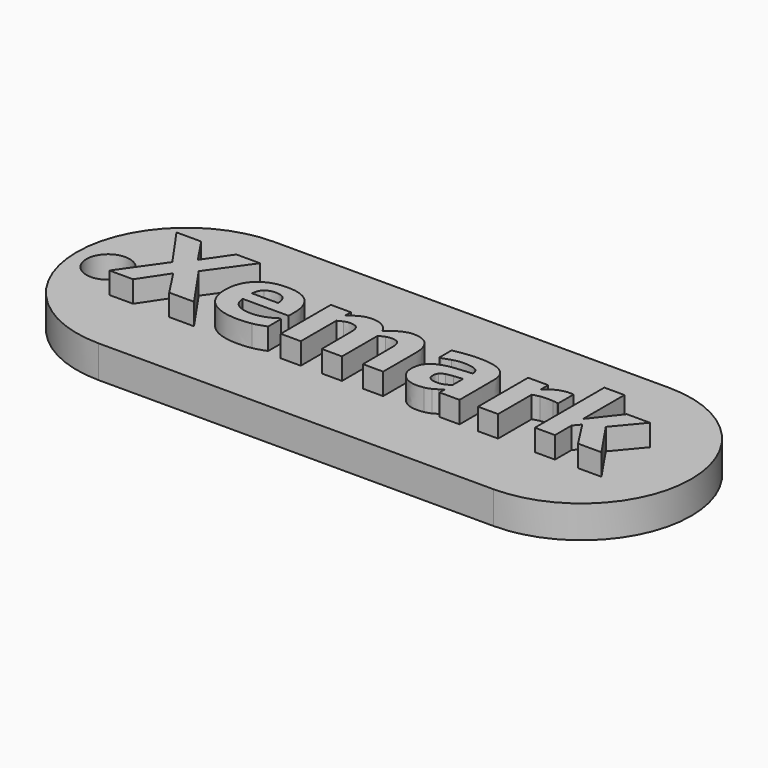
from build123d import *

# Parameters (mm, degrees)
CYLINDER_R       = 2
CYLINDER_DEPTH   = 10
PAD_DEPTH        = 3
EXTRUDE002_DEPTH = 3
EXTRUDE001_DEPTH = 3
EXTRUDE004_DEPTH = 3
EXTRUDE005_DEPTH = 3
EXTRUDE007_DEPTH = 3
EXTRUDE003_DEPTH = 3
EXTRUDE006_DEPTH = 3
EXTRUDE_DEPTH    = 3


with BuildPart() as cilindro:
    # Cylinder → Cylinder (new body)
    with BuildSketch(Plane(origin=(-19, 1, -6), x_dir=(1, 0, 0), z_dir=(0, 0, 1))):
        Circle(CYLINDER_R)
    extrude(amount=CYLINDER_DEPTH)


with BuildPart() as cut002:
    # Sketch → Pad (new body)
    with BuildSketch(Plane.XY):
        with BuildLine():
            ThreePointArc((-12.054601, 11.577675), (-22.22746, 1.404816), (-12.054601, -8.768044))
            Line((-12.054601, -8.768044), (24.520599, -8.768044))
            ThreePointArc((24.520599, -8.768044), (34.693458, 1.404816), (24.520599, 11.577675))
            Line((-12.054601, 11.577675), (24.520599, 11.577675))
        make_face()
    extrude(amount=PAD_DEPTH)

    # Cut002: cut Cilindro
    add(cilindro.part, mode=Mode.SUBTRACT)


with BuildPart() as extrude002:
    # path45001 → Extrude002 (new body)
    with BuildSketch(Plane(origin=(-4.684063, 1.865489, 0), x_dir=(0, 1, 0), z_dir=(0, 0, 1))):
        with BuildLine():
            add(Edge.make_bspline(
                [(-0.586528, -1.206645), (-0.002584, -1.191143), (0.291972, -0.917257)],
                knots=[0, 0, 0, 1, 1, 1], degree=2))
            add(Edge.make_bspline(
                [(0.291972, -0.917257), (0.586528, -0.643372), (0.586528, -0.064596)],
                knots=[0, 0, 0, 1, 1, 1], degree=2))
            add(Edge.make_bspline(
                [(0.586528, -0.064596), (0.586528, 0.472839), (0.307475, 0.819071)],
                knots=[0, 0, 0, 1, 1, 1], degree=2))
            add(Edge.make_bspline(
                [(0.307475, 0.819071), (0.028422, 1.165304), (-0.586528, 1.206645)],
                knots=[0, 0, 0, 1, 1, 1], degree=2))
            add(Edge.make_bspline(
                [(-0.586528, 1.206645), (-0.586528, -1.206645)],
                knots=[0, 0, 9.121094, 9.121094], degree=1))
        make_face()
    extrude(amount=EXTRUDE002_DEPTH)


with BuildPart() as cut:
    # path45 → Extrude001 (new body)
    with BuildSketch(Plane(origin=(-4.696982, 0.545156, 0), x_dir=(0, -1, 0), z_dir=(0, 0, -1))):
        with BuildLine():
            add(Edge.make_bspline(
                [(0.356567, -3.06958), (0.356567, 1.188558)],
                knots=[0, 0, 16.09375, 16.09375], degree=1))
            add(Edge.make_bspline(
                [(0.356567, 1.188558), (1.038696, 1.147217), (1.400431, 0.671794)],
                knots=[0, 0, 0, 1, 1, 1], degree=2))
            add(Edge.make_bspline(
                [(1.400431, 0.671794), (1.762166, 0.191203), (1.762166, -0.738973)],
                knots=[0, 0, 0, 1, 1, 1], degree=2))
            add(Edge.make_bspline(
                [(1.762166, -0.738973), (1.762166, -1.328084), (1.550293, -1.881022)],
                knots=[0, 0, 0, 1, 1, 1], degree=2))
            add(Edge.make_bspline(
                [(1.550293, -1.881022), (1.33842, -2.43396), (1.09554, -2.754354)],
                knots=[0, 0, 0, 1, 1, 1], degree=2))
            add(Edge.make_bspline(
                [(1.09554, -2.754354), (1.09554, -2.96106)],
                knots=[0, 0, 0.78125, 0.78125], degree=1))
            add(Edge.make_bspline(
                [(1.09554, -2.96106), (2.588989, -2.96106)],
                knots=[0, 0, 5.644531, 5.644531], degree=1))
            add(Edge.make_bspline(
                [(2.588989, -2.96106), (2.842204, -2.330607), (2.955892, -1.772502)],
                knots=[0, 0, 0, 1, 1, 1], degree=2))
            add(Edge.make_bspline(
                [(2.955892, -1.772502), (3.06958, -1.214396), (3.06958, -0.537435)],
                knots=[0, 0, 0, 1, 1, 1], degree=2))
            add(Edge.make_bspline(
                [(3.06958, -0.537435), (3.06958, 1.209229), (2.284098, 2.139404)],
                knots=[0, 0, 0, 1, 1, 1], degree=2))
            add(Edge.make_bspline(
                [(2.284098, 2.139404), (1.498617, 3.06958), (0.046509, 3.06958)],
                knots=[0, 0, 0, 1, 1, 1], degree=2))
            add(Edge.make_bspline(
                [(0.046509, 3.06958), (-1.390096, 3.06958), (-2.227254, 2.191081)],
                knots=[0, 0, 0, 1, 1, 1], degree=2))
            add(Edge.make_bspline(
                [(-2.227254, 2.191081), (-3.06958, 1.307414), (-3.06958, -0.227376)],
                knots=[0, 0, 0, 1, 1, 1], degree=2))
            add(Edge.make_bspline(
                [(-3.06958, -0.227376), (-3.06958, -1.643311), (-2.351278, -2.356445)],
                knots=[0, 0, 0, 1, 1, 1], degree=2))
            add(Edge.make_bspline(
                [(-2.351278, -2.356445), (-1.638143, -3.06958), (-0.294556, -3.06958)],
                knots=[0, 0, 0, 1, 1, 1], degree=2))
            add(Edge.make_bspline(
                [(-0.294556, -3.06958), (0.356567, -3.06958)],
                knots=[0, 0, 2.460937, 2.460937], degree=1))
        make_face()
    extrude(amount=-EXTRUDE001_DEPTH)

    # Cut: cut Extrude002
    add(extrude002.part, mode=Mode.SUBTRACT)


with BuildPart() as extrude004:
    # path49 → Extrude004 (new body)
    with BuildSketch(Plane(origin=(13.374265, -0.457367, 0), x_dir=(0, 1, 0), z_dir=(0, 0, 1))):
        with BuildLine():
            add(Edge.make_bspline(
                [(-0.397909, -1.028361), (0.81132, -1.028361)],
                knots=[0, 0, 4.570313, 4.570313], degree=1))
            add(Edge.make_bspline(
                [(0.81132, -1.028361), (0.780314, -0.651124), (0.72347, -0.211873)],
                knots=[0, 0, 0, 1, 1, 1], degree=2))
            add(Edge.make_bspline(
                [(0.72347, -0.211873), (0.671794, 0.227375), (0.599446, 0.454753)],
                knots=[0, 0, 0, 1, 1, 1], degree=2))
            add(Edge.make_bspline(
                [(0.599446, 0.454753), (0.511597, 0.733803), (0.341064, 0.883666)],
                knots=[0, 0, 0, 1, 1, 1], degree=2))
            add(Edge.make_bspline(
                [(0.341064, 0.883666), (0.1757, 1.028361), (-0.098185, 1.028361)],
                knots=[0, 0, 0, 1, 1, 1], degree=2))
            add(Edge.make_bspline(
                [(-0.098185, 1.028361), (-0.279053, 1.028361), (-0.392741, 0.997355)],
                knots=[0, 0, 0, 1, 1, 1], degree=2))
            add(Edge.make_bspline(
                [(-0.392741, 0.997355), (-0.506429, 0.966348), (-0.609782, 0.842325)],
                knots=[0, 0, 0, 1, 1, 1], degree=2))
            add(Edge.make_bspline(
                [(-0.609782, 0.842325), (-0.713135, 0.723469), (-0.764811, 0.558104)],
                knots=[0, 0, 0, 1, 1, 1], degree=2))
            add(Edge.make_bspline(
                [(-0.764811, 0.558104), (-0.81132, 0.39274), (-0.81132, 0.041341)],
                knots=[0, 0, 0, 1, 1, 1], degree=2))
            add(Edge.make_bspline(
                [(-0.81132, 0.041341), (-0.81132, -0.237712), (-0.697632, -0.521933)],
                knots=[0, 0, 0, 1, 1, 1], degree=2))
            add(Edge.make_bspline(
                [(-0.697632, -0.521933), (-0.583944, -0.811321), (-0.397909, -1.028361)],
                knots=[0, 0, 0, 1, 1, 1], degree=2))
        make_face()
    extrude(amount=EXTRUDE004_DEPTH)


with BuildPart() as cut001:
    # path49001 → Extrude005 (new body)
    with BuildSketch(Plane(origin=(13.351012, 0.537405, 0), x_dir=(0, -1, 0), z_dir=(0, 0, -1))):
        with BuildLine():
            add(Edge.make_bspline(
                [(2.29185, -1.051614), (2.405538, -0.901754), (2.565735, -0.679544)],
                knots=[0, 0, 0, 1, 1, 1], degree=2))
            add(Edge.make_bspline(
                [(2.565735, -0.679544), (2.725932, -0.457336), (2.818949, -0.260965)],
                knots=[0, 0, 0, 1, 1, 1], degree=2))
            add(Edge.make_bspline(
                [(2.818949, -0.260965), (2.942973, 0.012921), (2.999817, 0.307476)],
                knots=[0, 0, 0, 1, 1, 1], degree=2))
            add(Edge.make_bspline(
                [(2.999817, 0.307476), (3.061829, 0.602032), (3.061829, 0.95343)],
                knots=[0, 0, 0, 1, 1, 1], degree=2))
            add(Edge.make_bspline(
                [(3.061829, 0.95343), (3.061829, 1.780253), (2.550232, 2.33836)],
                knots=[0, 0, 0, 1, 1, 1], degree=2))
            add(Edge.make_bspline(
                [(2.550232, 2.33836), (2.038635, 2.896464), (1.242818, 2.896464)],
                knots=[0, 0, 0, 1, 1, 1], degree=2))
            add(Edge.make_bspline(
                [(1.242818, 2.896464), (0.607198, 2.896464), (0.204122, 2.612243)],
                knots=[0, 0, 0, 1, 1, 1], degree=2))
            add(Edge.make_bspline(
                [(0.204122, 2.612243), (-0.198954, 2.328025), (-0.431498, 1.806092)],
                knots=[0, 0, 0, 1, 1, 1], degree=2))
            add(Edge.make_bspline(
                [(-0.431498, 1.806092), (-0.664042, 1.289326), (-0.762227, 0.524517)],
                knots=[0, 0, 0, 1, 1, 1], degree=2))
            add(Edge.make_bspline(
                [(-0.762227, 0.524517), (-0.860413, -0.240296), (-0.906921, -1.061949)],
                knots=[0, 0, 0, 1, 1, 1], degree=2))
            add(Edge.make_bspline(
                [(-0.906921, -1.061949), (-0.937927, -1.061949)],
                knots=[0, 0, 0.117188, 0.117188], degree=1))
            add(Edge.make_bspline(
                [(-0.937927, -1.061949), (-1.418518, -1.061949), (-1.599386, -0.669209)],
                knots=[0, 0, 0, 1, 1, 1], degree=2))
            add(Edge.make_bspline(
                [(-1.599386, -0.669209), (-1.785421, -0.276467), (-1.785421, 0.488343)],
                knots=[0, 0, 0, 1, 1, 1], degree=2))
            add(Edge.make_bspline(
                [(-1.785421, 0.488343), (-1.785421, 0.948263), (-1.620056, 1.470196)],
                knots=[0, 0, 0, 1, 1, 1], degree=2))
            add(Edge.make_bspline(
                [(-1.620056, 1.470196), (-1.459859, 1.992126), (-1.372009, 2.219504)],
                knots=[0, 0, 0, 1, 1, 1], degree=2))
            add(Edge.make_bspline(
                [(-1.372009, 2.219504), (-1.372009, 2.390035)],
                knots=[0, 0, 0.64453, 0.64453], degree=1))
            add(Edge.make_bspline(
                [(-1.372009, 2.390035), (-2.772441, 2.390035)],
                knots=[0, 0, 5.292969, 5.292969], degree=1))
            add(Edge.make_bspline(
                [(-2.772441, 2.390035), (-2.849955, 2.09548), (-2.953308, 1.434022)],
                knots=[0, 0, 0, 1, 1, 1], degree=2))
            add(Edge.make_bspline(
                [(-2.953308, 1.434022), (-3.061829, 0.767396), (-3.061829, 0.100771)],
                knots=[0, 0, 0, 1, 1, 1], degree=2))
            add(Edge.make_bspline(
                [(-3.061829, 0.100771), (-3.061829, -1.485698), (-2.570903, -2.188497)],
                knots=[0, 0, 0, 1, 1, 1], degree=2))
            add(Edge.make_bspline(
                [(-2.570903, -2.188497), (-2.085144, -2.896464), (-1.04128, -2.896464)],
                knots=[0, 0, 0, 1, 1, 1], degree=2))
            add(Edge.make_bspline(
                [(-1.04128, -2.896464), (2.906799, -2.896464)],
                knots=[0, 0, 14.921875, 14.921875], degree=1))
            add(Edge.make_bspline(
                [(2.906799, -2.896464), (2.906799, -1.051614)],
                knots=[0, 0, 6.97266, 6.97266], degree=1))
            add(Edge.make_bspline(
                [(2.906799, -1.051614), (2.29185, -1.051614)],
                knots=[0, 0, 2.324219, 2.324219], degree=1))
        make_face()
    extrude(amount=-EXTRUDE005_DEPTH)

    # Cut001: cut Extrude004
    add(extrude004.part, mode=Mode.SUBTRACT)


with BuildPart() as extrude007:
    # path53 → Extrude007 (new body)
    with BuildSketch(Plane(origin=(26.308878, 1.651032, 0), x_dir=(0, -1, 0), z_dir=(0, 0, -1))):
        with BuildLine():
            add(Edge.make_bspline(
                [(4.020426, -3.079915), (4.020426, -0.914671)],
                knots=[0, 0, 8.1836, 8.1836], degree=1))
            add(Edge.make_bspline(
                [(4.020426, -0.914671), (1.493449, 0.713135)],
                knots=[0, 0, 11.360841, 11.360841], degree=1))
            add(Edge.make_bspline(
                [(1.493449, 0.713135), (2.108399, 1.219564)],
                knots=[0, 0, 3.010917, 3.010917], degree=1))
            add(Edge.make_bspline(
                [(2.108399, 1.219564), (4.020426, 1.219564)],
                knots=[0, 0, 7.226562, 7.226562], degree=1))
            add(Edge.make_bspline(
                [(4.020426, 1.219564), (4.020426, 3.079915)],
                knots=[0, 0, 7.03125, 7.03125], degree=1))
            add(Edge.make_bspline(
                [(4.020426, 3.079915), (-4.020426, 3.079915)],
                knots=[0, 0, 30.390625, 30.390625], degree=1))
            add(Edge.make_bspline(
                [(-4.020426, 3.079915), (-4.020426, 1.219564)],
                knots=[0, 0, 7.03125, 7.03125], degree=1))
            add(Edge.make_bspline(
                [(-4.020426, 1.219564), (0.780314, 1.219564)],
                knots=[0, 0, 18.144531, 18.144531], degree=1))
            add(Edge.make_bspline(
                [(0.780314, 1.219564), (-1.782837, -0.78548)],
                knots=[0, 0, 12.299413, 12.299413], degree=1))
            add(Edge.make_bspline(
                [(-1.782837, -0.78548), (-1.782837, -2.930053)],
                knots=[0, 0, 8.10547, 8.10547], degree=1))
            add(Edge.make_bspline(
                [(-1.782837, -2.930053), (0.718302, -0.842326)],
                knots=[0, 0, 12.313548, 12.313548], degree=1))
            add(Edge.make_bspline(
                [(0.718302, -0.842326), (4.020426, -3.079915)],
                knots=[0, 0, 15.075923, 15.075923], degree=1))
        make_face()
    extrude(amount=-EXTRUDE007_DEPTH)


with BuildPart() as extrude003:
    # path47 → Extrude003 (new body)
    with BuildSketch(Plane(origin=(4.429076, 0.612335, 0), x_dir=(0, -1, 0), z_dir=(0, 0, -1))):
        with BuildLine():
            add(Edge.make_bspline(
                [(-1.131714, -0.930174), (2.98173, -0.930174)],
                knots=[0, 0, 15.546875, 15.546875], degree=1))
            add(Edge.make_bspline(
                [(2.98173, -0.930174), (2.98173, 0.940512)],
                knots=[0, 0, 7.07031, 7.07031], degree=1))
            add(Edge.make_bspline(
                [(2.98173, 0.940512), (0.082682, 0.940512)],
                knots=[0, 0, 10.957031, 10.957031], degree=1))
            add(Edge.make_bspline(
                [(0.082682, 0.940512), (-0.341065, 0.940512), (-0.63562, 0.961176)],
                knots=[0, 0, 0, 1, 1, 1], degree=2))
            add(Edge.make_bspline(
                [(-0.63562, 0.961176), (-0.935343, 0.98184), (-1.121379, 1.074865)],
                knots=[0, 0, 0, 1, 1, 1], degree=2))
            add(Edge.make_bspline(
                [(-1.121379, 1.074865), (-1.307414, 1.167882), (-1.390096, 1.359085)],
                knots=[0, 0, 0, 1, 1, 1], degree=2))
            add(Edge.make_bspline(
                [(-1.390096, 1.359085), (-1.477946, 1.545119), (-1.477946, 1.886186)],
                knots=[0, 0, 0, 1, 1, 1], degree=2))
            add(Edge.make_bspline(
                [(-1.477946, 1.886186), (-1.477946, 2.160069), (-1.364258, 2.418453)],
                knots=[0, 0, 0, 1, 1, 1], degree=2))
            add(Edge.make_bspline(
                [(-1.364258, 2.418453), (-1.255737, 2.676835), (-1.131714, 2.883541)],
                knots=[0, 0, 0, 1, 1, 1], degree=2))
            add(Edge.make_bspline(
                [(-1.131714, 2.883541), (2.98173, 2.883541)],
                knots=[0, 0, 15.546875, 15.546875], degree=1))
            add(Edge.make_bspline(
                [(2.98173, 2.883541), (2.98173, 4.743897)],
                knots=[0, 0, 7.031268, 7.031268], degree=1))
            add(Edge.make_bspline(
                [(2.98173, 4.743897), (-2.821533, 4.743897)],
                knots=[0, 0, 21.933594, 21.933594], degree=1))
            add(Edge.make_bspline(
                [(-2.821533, 4.743897), (-2.821533, 2.883546)],
                knots=[0, 0, 7.031248, 7.031248], degree=1))
            add(Edge.make_bspline(
                [(-2.821533, 2.883546), (-2.180746, 2.883546)],
                knots=[0, 0, 2.421875, 2.421875], degree=1))
            add(Edge.make_bspline(
                [(-2.180746, 2.883546), (-2.557983, 2.402954), (-2.769857, 1.963706)],
                knots=[0, 0, 0, 1, 1, 1], degree=2))
            add(Edge.make_bspline(
                [(-2.769857, 1.963706), (-2.98173, 1.524455), (-2.98173, 0.992188)],
                knots=[0, 0, 0, 1, 1, 1], degree=2))
            add(Edge.make_bspline(
                [(-2.98173, 0.992188), (-2.98173, 0.418579), (-2.723348, -0.020669)],
                knots=[0, 0, 0, 1, 1, 1], degree=2))
            add(Edge.make_bspline(
                [(-2.723348, -0.020669), (-2.470134, -0.45992), (-1.97404, -0.707967)],
                knots=[0, 0, 0, 1, 1, 1], degree=2))
            add(Edge.make_bspline(
                [(-1.97404, -0.707967), (-2.444295, -1.266073), (-2.713013, -1.793171)],
                knots=[0, 0, 0, 1, 1, 1], degree=2))
            add(Edge.make_bspline(
                [(-2.713013, -1.793171), (-2.98173, -2.320271), (-2.98173, -2.8267)],
                knots=[0, 0, 0, 1, 1, 1], degree=2))
            add(Edge.make_bspline(
                [(-2.98173, -2.8267), (-2.98173, -3.767211), (-2.418457, -4.25297)],
                knots=[0, 0, 0, 1, 1, 1], degree=2))
            add(Edge.make_bspline(
                [(-2.418457, -4.25297), (-1.855184, -4.743897), (-0.795817, -4.743897)],
                knots=[0, 0, 0, 1, 1, 1], degree=2))
            add(Edge.make_bspline(
                [(-0.795817, -4.743897), (2.98173, -4.743897)],
                knots=[0, 0, 14.277344, 14.277344], degree=1))
            add(Edge.make_bspline(
                [(2.98173, -4.743897), (2.98173, -2.873208)],
                knots=[0, 0, 7.07032, 7.07032], degree=1))
            add(Edge.make_bspline(
                [(2.98173, -2.873208), (0.082682, -2.873208)],
                knots=[0, 0, 10.957031, 10.957031], degree=1))
            add(Edge.make_bspline(
                [(0.082682, -2.873208), (-0.346232, -2.873208), (-0.640788, -2.852544)],
                knots=[0, 0, 0, 1, 1, 1], degree=2))
            add(Edge.make_bspline(
                [(-0.640788, -2.852544), (-0.935343, -2.83704), (-1.121379, -2.744023)],
                knots=[0, 0, 0, 1, 1, 1], degree=2))
            add(Edge.make_bspline(
                [(-1.121379, -2.744023), (-1.307414, -2.656173), (-1.390096, -2.464972)],
                knots=[0, 0, 0, 1, 1, 1], degree=2))
            add(Edge.make_bspline(
                [(-1.390096, -2.464972), (-1.477946, -2.273768), (-1.477946, -1.927537)],
                knots=[0, 0, 0, 1, 1, 1], degree=2))
            add(Edge.make_bspline(
                [(-1.477946, -1.927537), (-1.477946, -1.694992), (-1.395264, -1.472784)],
                knots=[0, 0, 0, 1, 1, 1], degree=2))
            add(Edge.make_bspline(
                [(-1.395264, -1.472784), (-1.317749, -1.250574), (-1.131714, -0.930179)],
                knots=[0, 0, 0, 1, 1, 1], degree=2))
            add(Edge.make_bspline(
                [(-1.131714, -0.930179), (-1.131714, -0.930174)],
                knots=[0, 0, 2e-05, 2e-05], degree=1))
        make_face()
    extrude(amount=-EXTRUDE003_DEPTH)


with BuildPart() as extrude006:
    # path51 → Extrude006 (new body)
    with BuildSketch(Plane(origin=(20.061196, 0.542573, 0), x_dir=(0, -1, 0), z_dir=(0, 0, -1))):
        with BuildLine():
            add(Edge.make_bspline(
                [(-1.118794, -2.103231), (-1.118794, -1.937867)],
                knots=[0, 0, 0.625, 0.625], degree=1))
            add(Edge.make_bspline(
                [(-1.118794, -1.937867), (-1.160135, -1.81901), (-1.180806, -1.555462)],
                knots=[0, 0, 0, 1, 1, 1], degree=2))
            add(Edge.make_bspline(
                [(-1.180806, -1.555462), (-1.201478, -1.29191), (-1.201478, -1.116211)],
                knots=[0, 0, 0, 1, 1, 1], degree=2))
            add(Edge.make_bspline(
                [(-1.201478, -1.116211), (-1.201478, -0.718301), (-1.149801, -0.413411)],
                knots=[0, 0, 0, 1, 1, 1], degree=2))
            add(Edge.make_bspline(
                [(-1.149801, -0.413411), (-1.098125, -0.108521), (-0.974101, 0.24288)],
                knots=[0, 0, 0, 1, 1, 1], degree=2))
            add(Edge.make_bspline(
                [(-0.974101, 0.24288), (2.911966, 0.24288)],
                knots=[0, 0, 14.6875, 14.6875], degree=1))
            add(Edge.make_bspline(
                [(2.911966, 0.24288), (2.911966, 2.103231)],
                knots=[0, 0, 7.03125, 7.03125], degree=1))
            add(Edge.make_bspline(
                [(2.911966, 2.103231), (-2.891296, 2.103231)],
                knots=[0, 0, 21.933589, 21.933589], degree=1))
            add(Edge.make_bspline(
                [(-2.891296, 2.103231), (-2.891296, 0.24288)],
                knots=[0, 0, 7.03125, 7.03125], degree=1))
            add(Edge.make_bspline(
                [(-2.891296, 0.24288), (-2.038634, 0.24288)],
                knots=[0, 0, 3.222657, 3.222657], degree=1))
            add(Edge.make_bspline(
                [(-2.038634, 0.24288), (-2.565734, -0.37207), (-2.736266, -0.826823)],
                knots=[0, 0, 0, 1, 1, 1], degree=2))
            add(Edge.make_bspline(
                [(-2.736266, -0.826823), (-2.911966, -1.281576), (-2.911966, -1.66398)],
                knots=[0, 0, 0, 1, 1, 1], degree=2))
            add(Edge.make_bspline(
                [(-2.911966, -1.66398), (-2.911966, -1.762167), (-2.906799, -1.886191)],
                knots=[0, 0, 0, 1, 1, 1], degree=2))
            add(Edge.make_bspline(
                [(-2.906799, -1.886191), (-2.901632, -2.010214), (-2.891297, -2.103231)],
                knots=[0, 0, 0, 1, 1, 1], degree=2))
            add(Edge.make_bspline(
                [(-2.891297, -2.103231), (-1.118794, -2.103231)],
                knots=[0, 0, 6.699224, 6.699224], degree=1))
        make_face()
    extrude(amount=-EXTRUDE006_DEPTH)


with BuildPart() as fusion001:
    # path43 → Extrude (new body)
    with BuildSketch(Plane(origin=(-12.262412, 1.477916, 0), x_dir=(0, -1, 0), z_dir=(0, 0, -1))):
        with BuildLine():
            add(Edge.make_bspline(
                [(3.84731, -3.917074), (3.84731, -1.62264)],
                knots=[0, 0, 8.671875, 8.671875], degree=1))
            add(Edge.make_bspline(
                [(3.84731, -1.62264), (1.315165, 0.036173)],
                knots=[0, 0, 11.441062, 11.441062], degree=1))
            add(Edge.make_bspline(
                [(1.315165, 0.036173), (3.84731, 1.725993)],
                knots=[0, 0, 11.505696, 11.505696], degree=1))
            add(Edge.make_bspline(
                [(3.84731, 1.725993), (3.84731, 3.917074)],
                knots=[0, 0, 8.28125, 8.28125], degree=1))
            add(Edge.make_bspline(
                [(3.84731, 3.917074), (-0.028422, 1.188558)],
                knots=[0, 0, 17.914362, 17.914362], degree=1))
            add(Edge.make_bspline(
                [(-0.028422, 1.188558), (-3.84731, 3.860229)],
                knots=[0, 0, 17.615087, 17.615087], degree=1))
            add(Edge.make_bspline(
                [(-3.84731, 3.860229), (-3.84731, 1.570963)],
                knots=[0, 0, 8.652344, 8.652344], degree=1))
            add(Edge.make_bspline(
                [(-3.84731, 1.570963), (-1.449524, -0.031006)],
                knots=[0, 0, 10.898997, 10.898997], degree=1))
            add(Edge.make_bspline(
                [(-1.449524, -0.031006), (-3.84731, -1.679484)],
                knots=[0, 0, 10.99762, 10.99762], degree=1))
            add(Edge.make_bspline(
                [(-3.84731, -1.679484), (-3.84731, -3.875732)],
                knots=[0, 0, 8.300781, 8.300781], degree=1))
            add(Edge.make_bspline(
                [(-3.84731, -3.875732), (-0.105937, -1.188558)],
                knots=[0, 0, 17.409959, 17.409959], degree=1))
            add(Edge.make_bspline(
                [(-0.105937, -1.188558), (3.84731, -3.917074)],
                knots=[0, 0, 18.154704, 18.154704], degree=1))
        make_face()
    extrude(amount=-EXTRUDE_DEPTH)

    # Fusion: union Cut, Cut001, Extrude007, Extrude003, Extrude006
    add(cut.part)
    add(cut001.part)
    add(extrude007.part)
    add(extrude003.part)
    add(extrude006.part)


with BuildPart() as fusion001_1:
    # Fusion placement: moved
    add(fusion001.part.moved(Location((0, 0, 2))))

    # Fusion001: union Cut002
    add(cut002.part)


solid = fusion001_1.part
